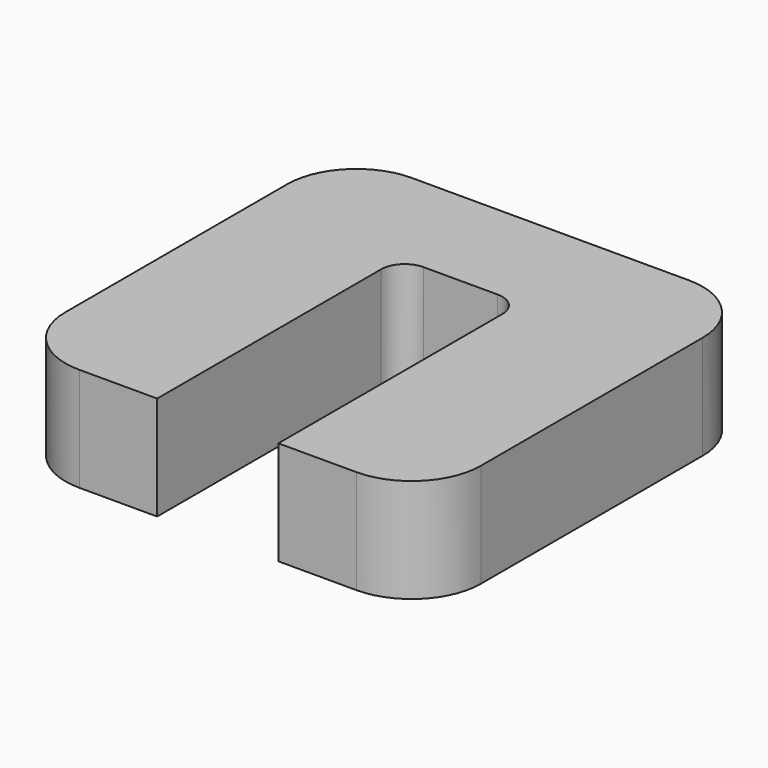
from build123d import *

# Parameters (mm, degrees)
PAD_DEPTH = 3


with BuildPart() as part:
    # Sketch (on XY_Plane of Origin) → Pad (new body)
    with BuildSketch(Plane.XY):
        with BuildLine():
            Line((-6, 4), (-6, -4))
            ThreePointArc((-6, -4), (-5.414214, -5.414214), (-4, -6))
            Line((-4, -6), (-1.75, -6))
            Line((-1.75, 2.083269), (-1.75, -6))
            ThreePointArc((-1.070312, 2.762957), (-1.550924, 2.563881), (-1.75, 2.083269))
            Line((1.070312, 2.762957), (-1.070312, 2.762957))
            ThreePointArc((1.75, 2.083269), (1.550924, 2.563881), (1.070312, 2.762957))
            Line((1.75, -6), (1.75, 2.083269))
            Line((1.75, -6), (4, -6))
            ThreePointArc((4, -6), (5.414214, -5.414214), (6, -4))
            Line((6, -4), (6, 4))
            ThreePointArc((6, 4), (5.414214, 5.414214), (4, 6))
            Line((4, 6), (-4, 6))
            ThreePointArc((-4, 6), (-5.414214, 5.414214), (-6, 4))
        make_face()
    extrude(amount=PAD_DEPTH)


solid = part.part
